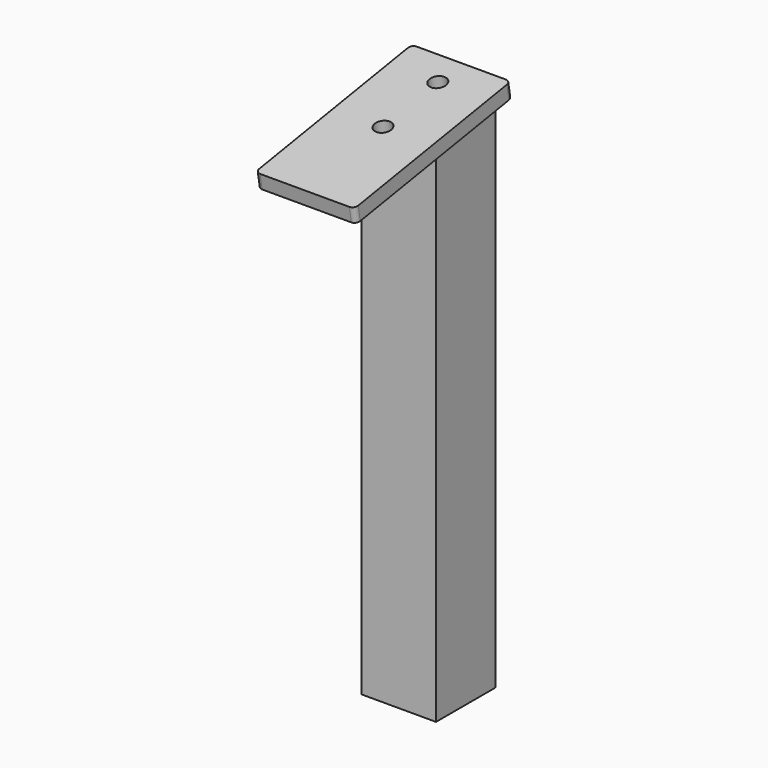
from build123d import *

# Parameters (mm, degrees)
F0_W     = 38.1
F0_H     = 260.35
F2_W     = 38.1
F2_H     = 266.7
F5_DEPTH = 7.62
F6_R     = 4.2333333333
F7_DEPTH = 7.62
F8_R     = 2.54


with BuildPart() as f3:
    # F0 (on Front) → F3 section 0
    with BuildSketch(Plane.XZ):
        with Locations((19.05, 130.175)):
            Rectangle(F0_W, F0_H)
    # F2 (on offset) → F3 section 1
    with BuildSketch(Plane.XZ.offset(-38.1)):
        with Locations((19.05, 133.35)):
            Rectangle(F2_W, F2_H)
    loft()


with BuildPart() as f5:
    # F4 (on face) → F5 (new body)
    with BuildSketch(Plane(origin=(0, -42.2189189189, 253.3135135135), x_dir=(1, 0, 0), z_dir=(0, -0.1643989873, 0.9863939238))):
        Polygon((44.45, 84.6018184123), (-6.35, 84.6018184123), (-6.35, 81.4268184123), (-6.35, -16.9981815877), (44.45, -16.9981815877), align=None)
        with BuildLine():
            Line((38.1, 42.8012763449), (0, 42.8012763449))
            add(Edge.make_bspline(
                [(0, 42.8012763449), (0, 81.4268184123)],
                knots=[0, 0, 1, 1], degree=1))
            Line((0, 81.4268184123), (38.1, 81.4268184123))
            add(Edge.make_bspline(
                [(38.1, 42.8012763449), (38.1, 81.4268184123)],
                knots=[0, 0, 1, 1], degree=1))
        make_face(mode=Mode.SUBTRACT)
        with BuildLine():
            add(Edge.make_bspline(
                [(0, 42.8012763449), (0, 81.4268184123)],
                knots=[0, 0, 1, 1], degree=1))
            Line((0, 42.8012763449), (38.1, 42.8012763449))
            add(Edge.make_bspline(
                [(38.1, 42.8012763449), (38.1, 81.4268184123)],
                knots=[0, 0, 1, 1], degree=1))
            Line((38.1, 81.4268184123), (0, 81.4268184123))
        make_face()
    extrude(amount=F5_DEPTH)

    # F6 (on face) → F7 (cut)
    with BuildSketch(Plane(origin=(0, -43.4716392022, 260.8298352131), x_dir=(1, 0, 0), z_dir=(0, -0.1643989873, 0.9863939238))):
        with Locations((19.05, 33.8018184123)):
            Circle(F6_R)
        with Locations((19.05, 69.3618184123)):
            Circle(F6_R)
    extrude(amount=-F7_DEPTH, mode=Mode.SUBTRACT)

    # F8
    f8_edges = [f5.edges().sort_by_distance(p)[0] for p in [
        (44.45, -59.612182, 254.277191),
        (-6.35, -59.612182, 254.277191),
        (-6.35, 40.605441, 270.980128),
        (44.45, 40.605441, 270.980128),
    ]]
    fillet(f8_edges, radius=F8_R)


solid = Compound([f3.part, f5.part])
